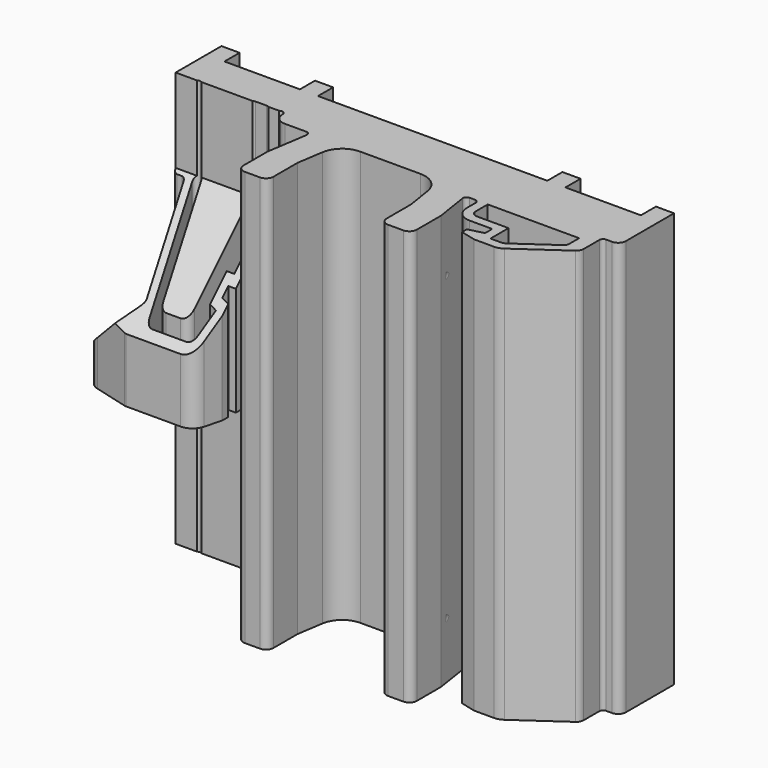
from build123d import *

# Parameters (mm, degrees)
PAD_DEPTH       = 27.5
PAD001_DEPTH    = 9.5
SKETCH003_R     = 1.25
POCKET_DEPTH    = 14.501
POCKET001_DEPTH = 16.401
POCKET002_DEPTH = 2.501
POCKET003_DEPTH = 5


with BuildPart() as part:
    # Sketch → Pad (new body, symmetric)
    with BuildSketch(Plane.XY):
        with BuildLine():
            Line((-30, 14.5), (-30, 7))
            ThreePointArc((-30, 7), (-29.853553, 6.646447), (-29.5, 6.5))
            Line((-29.5, 6.5), (-28.829405, 6.5))
            ThreePointArc((-28.346442, 6.12941), (-28.525024, 6.396677), (-28.829405, 6.5))
            Line((-28.346442, 6.12941), (-25.908104, -2.97059))
            ThreePointArc((-26.391067, -3.6), (-25.99439, -3.404381), (-25.908104, -2.97059))
            Line((-28.553955, -3.6), (-26.391067, -3.6))
            Line((-29.62941, -3.311833), (-28.553955, -3.6))
            ThreePointArc((-30, -2.82887), (-29.896677, -3.133251), (-29.62941, -3.311833))
            Line((-30, -2.82887), (-30, -1))
            Line((-30, -1), (-32.4, -1))
            Line((-32.4, -1), (-32.4, -3))
            ThreePointArc((-32.4, -3), (-32.028036, -4.095771), (-31.065874, -4.738666))
            Line((-31.065874, -4.738666), (-26.48568, -5.965926))
            ThreePointArc((-26.48568, -5.965926), (-26.357387, -5.991445), (-26.226861, -6))
            Line((-26.226861, -6), (-19.034654, -6))
            ThreePointArc((-19.034654, -6), (-17.817131, -5.586707), (-17.102802, -4.517638))
            Line((-17.102802, -4.517638), (-16.5, -2.267949))
            Line((-16.5, -2.267949), (-16.5, -1.267949))
            Line((-16.5, -1.267949), (-17.5, -1))
            Line((-17.5, -1), (-17.5, 0))
            Line((-17.5, 0), (-16.5, 0))
            Line((-16.5, 0), (-16.5, 6.5))
            ThreePointArc((-15.5, 6.5), (-16, 7), (-16.5, 6.5))
            ThreePointArc((-15.5, 6.5), (-15.06066, 5.43934), (-14, 5))
            Line((-14, 5), (-11.154762, 5))
            ThreePointArc((-10.660644, 4.423529), (-10.775134, 4.825396), (-11.154762, 5))
            Line((-10.660644, 4.423529), (-11.5, -1))
            Line((-11.5, -1), (-11.5, -5))
            ThreePointArc((-11.5, -5), (-11.207107, -5.707107), (-10.5, -6))
            Line((-10.5, -6), (-8.5, -6))
            ThreePointArc((-8.5, -6), (-7.792893, -5.707107), (-7.5, -5))
            Line((-7.5, -5), (-7.5, -1))
            Line((-7.5, -1), (-6.964706, 2.458824))
            ThreePointArc((-4, 5), (-5.952374, 4.27777), (-6.964706, 2.458824))
            Line((-4, 5), (4, 5))
            ThreePointArc((6.964706, 2.458824), (5.952374, 4.27777), (4, 5))
            Line((6.964706, 2.458824), (7.5, -1))
            Line((7.5, -1), (7.5, -5))
            ThreePointArc((7.5, -5), (7.792893, -5.707107), (8.5, -6))
            Line((8.5, -6), (10.5, -6))
            ThreePointArc((10.5, -6), (11.207107, -5.707107), (11.5, -5))
            Line((11.5, -5), (11.5, -1))
            Line((11.5, -1), (10.815406, 3.423529))
            ThreePointArc((11.309524, 4), (10.929896, 3.825396), (10.815406, 3.423529))
            Line((11.309524, 4), (12, 4))
            ThreePointArc((12.5, 3.5), (12.353553, 3.853553), (12, 4))
            Line((12.5, 3.5), (12.5, 2))
            ThreePointArc((12.5, 2), (13.085786, 0.585786), (14.5, 0))
            Line((14.5, 0), (17.5, 0))
            Line((17.5, 0), (17.5, -1.2))
            Line((17.5, -1.2), (15.5, -1.7))
            Line((15.5, -1.7), (15.5, -2.5))
            Line((15.5, -2.5), (17.5, -3))
            Line((17.5, -3), (20.1, -3))
            ThreePointArc((20.1, -3), (20.701412, -2.907434), (21.247153, -2.638304))
            Line((21.247153, -2.638304), (27.272726, 1.580848))
            ThreePointArc((27.272726, 1.580848), (27.586161, 1.938251), (27.69915, 2.4))
            Line((27.69915, 2.4), (27.69915, 5))
            ThreePointArc((28.19915, 5.5), (27.845597, 5.353553), (27.69915, 5))
            Line((29, 5.5), (28.19915, 5.5))
            ThreePointArc((29, 5.5), (29.707107, 5.792893), (30, 6.5))
            Line((30, 6.5), (30, 14.5))
            Line((27.6, 14.5), (30, 14.5))
            Line((27.6, 12), (27.6, 14.5))
            Line((17.6, 12), (27.6, 12))
            Line((17.6, 14.5), (17.6, 12))
            Line((15.2, 14.5), (17.6, 14.5))
            Line((15.2, 12), (15.2, 14.5))
            Line((-15.2, 12), (15.2, 12))
            Line((-15.2, 14.5), (-15.2, 12))
            Line((-17.6, 14.5), (-15.2, 14.5))
            Line((-17.6, 12), (-17.6, 14.5))
            Line((-27.6, 12), (-17.6, 12))
            Line((-27.6, 14.5), (-27.6, 12))
            Line((-27.6, 14.5), (-30, 14.5))
        make_face()
        with BuildLine():
            Line((-23.894296, -2.758819), (-26.409864, 6.62941))
            ThreePointArc((-26.409864, 6.62941), (-27.022236, 6.982963), (-27.37579, 6.37059))
            Line((-27.37579, 6.37059), (-24.527648, -4.258819))
            ThreePointArc((-24.527648, -4.258819), (-24.170484, -4.793353), (-23.561722, -5))
            Line((-23.561722, -5), (-19.061722, -5))
            ThreePointArc((-19.061722, -5), (-18.452961, -4.793353), (-18.095797, -4.258819))
            Line((-18.095797, -4.258819), (-17.5, -2.035276))
            Line((-17.5, -2.035276), (-18.5, -1.767327))
            Line((-18.5, -1.767327), (-18.5, 1))
            Line((-18.5, 1), (-17.5, 1))
            Line((-17.5, 1), (-17.5, 6.5))
            ThreePointArc((-17.5, 6.5), (-17.646447, 6.853553), (-18, 7))
            Line((-18, 7), (-19.5, 7))
            ThreePointArc((-19.5, 7), (-19.853553, 6.853553), (-20, 6.5))
            Line((-20, 6.5), (-20, -2.5))
            ThreePointArc((-21, -3.5), (-20.292893, -3.207107), (-20, -2.5))
            Line((-21, -3.5), (-22.92837, -3.5))
            ThreePointArc((-23.894296, -2.758819), (-23.537131, -3.293353), (-22.92837, -3.5))
        make_face(mode=Mode.SUBTRACT)
        with BuildLine():
            Line((25.818763, 4), (13.7, 4))
            Line((13.7, 4), (13.7, 2))
            ThreePointArc((13.7, 2), (13.934315, 1.434315), (14.5, 1.2))
            Line((14.5, 1.2), (18.7, 1.2))
            Line((18.7, 1.2), (18.7, -1.8))
            Line((18.7, -1.8), (20.1, -1.8))
            ThreePointArc((20.1, -1.8), (20.400706, -1.753717), (20.673576, -1.619152))
            Line((20.673576, -1.619152), (25.477624, 1.744678))
            ThreePointArc((25.477624, 1.744678), (25.728372, 2.030601), (25.818763, 2.4))
            Line((25.818763, 2.4), (25.818763, 4))
        make_face(mode=Mode.SUBTRACT)
    extrude(amount=PAD_DEPTH, both=True)

    # Sketch002 → Pad001 (join)
    with BuildSketch(Plane.XZ.offset(-5)):
        Polygon((-16.742641, 20), (-12.5, 15.757359), (-8.257359, 20), (-12.5, 24.242641), align=None)
        Polygon((12.5, 15.757359), (16.742641, 20), (12.5, 24.242641), (8.257359, 20), align=None)
        Polygon((-12.5, -24.242641), (-8.257359, -20), (-12.5, -15.757359), (-16.742641, -20), align=None)
        Polygon((12.5, -24.242641), (16.742641, -20), (12.5, -15.757359), (8.257359, -20), align=None)
    extrude(amount=-PAD001_DEPTH)

    # Sketch003 → Pocket (cut, through all)
    with BuildSketch(Plane.XZ):
        with Locations((-12.5, 20)):
            Circle(SKETCH003_R)
        with Locations((12.5, 20)):
            Circle(SKETCH003_R)
        with Locations((12.5, -20)):
            Circle(SKETCH003_R)
        with Locations((-12.5, -20)):
            Circle(SKETCH003_R)
    extrude(amount=-POCKET_DEPTH, mode=Mode.SUBTRACT)

    # Sketch004 → Pocket001 (cut, through all)
    with BuildSketch(Plane.YZ.offset(-16)):
        Polygon((6.907375, 33.703583), (6.907375, 16.369312), (-6.961937, 2.5), (-6.961937, -5), (6.907375, -5), (6.907375, -30.243389), (-25.400446, -30.243389), (-25.400446, 33.703583), align=None)
    extrude(amount=-POCKET001_DEPTH, mode=Mode.SUBTRACT)

    # Sketch005 → Pocket002 (cut, through all)
    with BuildSketch(Plane.XZ.offset(3.5)):
        Polygon((-47.071987, 34.202492), (-47.071987, -15.071987), (-26, 6), (-26, 34.202492), align=None)
    extrude(amount=POCKET002_DEPTH, mode=Mode.SUBTRACT)

    # Sketch006 → Pocket003 (cut)
    with BuildSketch(Plane.XZ.offset(3.5)):
        Polygon((-27.752842, 23.449738), (-27.752842, 4.288301), (-37.291756, -5.250613), (-37.291756, 23.449738), align=None)
    extrude(amount=-POCKET003_DEPTH, mode=Mode.SUBTRACT)


solid = part.part
